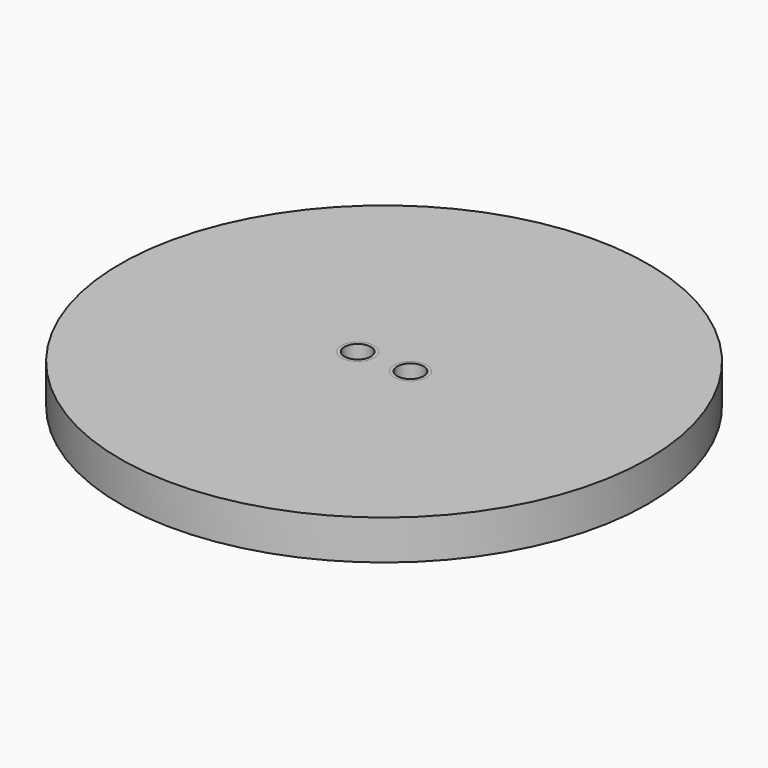
from build123d import *

# Parameters (mm, degrees)
F0_R     = 20
F1_DEPTH = 3
F2_R     = 5.5
F3_DEPTH = 2
F4_R     = 1.25
F5_DEPTH = 25
F6_R     = 1.25
F7_DEPTH = 5
F8_R     = 1
F9_DEPTH = 25


with BuildPart() as f1:
    # F0 (on Top) → F1 (new body)
    with BuildSketch(Plane.XY):
        Circle(F0_R)
    extrude(amount=F1_DEPTH)

    # F2 (on face) → F3 (join)
    with BuildSketch(Plane(origin=(0, 0, 0), x_dir=(1, 0, 0), z_dir=(0, 0, -1))):
        Circle(F2_R)
    extrude(amount=F3_DEPTH)

    # F4 (on face) → F5 (cut)
    with BuildSketch(Plane.XY.offset(3)):
        with Locations((-2, 0)):
            Circle(F4_R)
        with Locations((2, 0)):
            Circle(F4_R)
    extrude(amount=-F5_DEPTH, mode=Mode.SUBTRACT)


with BuildPart() as f7:
    # F6 (on face) → F7 (new body)
    with BuildSketch(Plane.XY.offset(3)):
        with Locations((-2, 0)):
            Circle(F6_R)
        with Locations((2, 0)):
            Circle(F6_R)
    extrude(amount=-F7_DEPTH)

    # F8 (on face) → F9 (cut)
    with BuildSketch(Plane.XY.offset(3)):
        with Locations((-2, 0)):
            Circle(F8_R)
        with Locations((2, 0)):
            Circle(F8_R)
    extrude(amount=-F9_DEPTH, mode=Mode.SUBTRACT)


solid = Compound([f1.part, f7.part])
